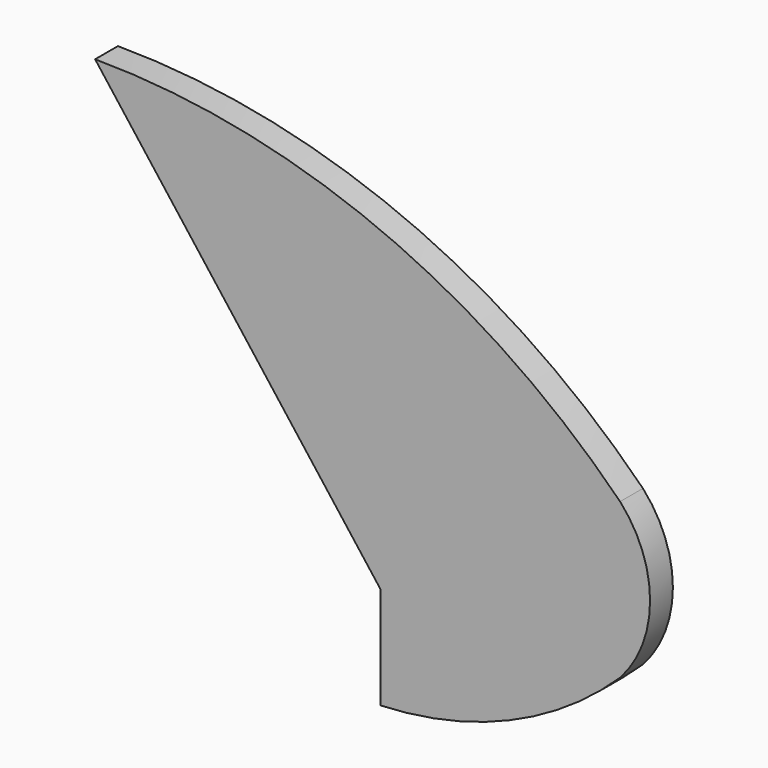
from build123d import *

# Parameters (mm, degrees)
F1_DEPTH = 3


with BuildPart() as f1:
    # F0 (on Front) → F1 (new body)
    with BuildSketch(Plane.XZ):
        with BuildLine():
            ThreePointArc((55.235974, 0), (58.386208, 8.152678), (55.235974, 16.305355))
            ThreePointArc((55.235974, 16.305355), (29.9081, 33.306371), (0, 39.309811))
            Line((0, 39.309811), (30.013841, 0))
            Line((30.013841, 0), (30.013841, -10.775136))
            ThreePointArc((30.013841, -10.775136), (43.624115, -7.726486), (55.235974, 0))
        make_face()
    extrude(amount=F1_DEPTH)


solid = f1.part
